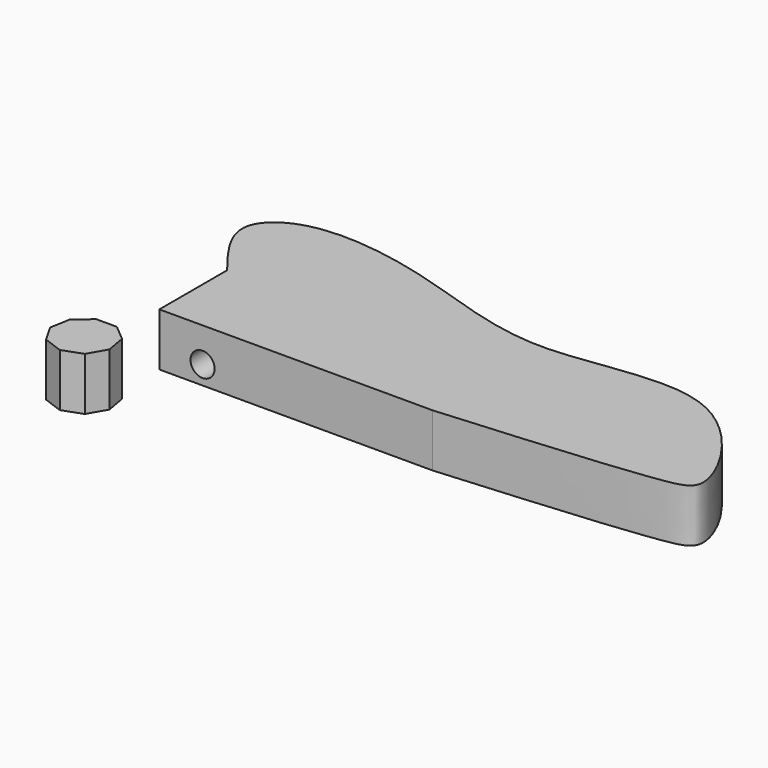
from build123d import *

# Parameters (mm, degrees)
F1_DEPTH = 25.4
F0_W     = 131.0937702656
F0_H     = 40.6230986118
F2_R     = 5.7832794486
F3_DEPTH = 89.3176973929


with BuildPart() as f1:
    # F0 (on Top) → F1 (new body)
    with BuildSketch(Plane.XY):
        Polygon((-134.6932511543, -61.597596854), (-144.5764143254, -61.597596854), (-152.147356553, -67.9503716849), (-153.8635498273, -77.6833874), (-148.9219682417, -86.2424577759), (-139.6348327398, -89.6226986602), (-130.3476972379, -86.2424577759), (-125.4061156524, -77.6833874), (-127.1223089266, -67.9503716849), align=None)
    extrude(amount=F1_DEPTH)


with BuildPart() as f1b:
    # F0 (on Top) → F1, piece 2 (new body)
    with BuildSketch(Plane.XY):
        with BuildLine():
            Line((0, 0), (0, -40.6230986118))
            add(Edge.make_bspline(
                [(-131.0937702656, 0), (-139.7720070352, 11.0244108668), (-155.4560847023, 30.9487020399), (-129.8368140978, 53.0756520872), (-67.5758107322, 44.3132357682), (-1.986536452, 14.73822387), (80.9415009211, 46.0232828068), (124.2539338268, -26.2090809087), (99.0819851312, -33.087788073), (41.8108627244, -37.4433295135), (0, -40.6230986118)],
                knots=[0, 0, 0, 0, 0.1027943641, 0.1857790739, 0.3201907001, 0.4685390922, 0.6227619524, 0.7577346588, 0.82313385, 1, 1, 1, 1], degree=3))
            Line((-131.0937702656, 0), (0, 0))
        make_face()
        with Locations((-65.5468851328, -20.3115493059)):
            Rectangle(F0_W, F0_H)
    extrude(amount=F1_DEPTH)

    # F2 (on face) → F3 (cut, through all)
    with BuildSketch(Plane.XZ.offset(40.6230986118)):
        with Locations((-110.369361937, 8.9162522927)):
            Circle(F2_R)
    extrude(amount=-F3_DEPTH, mode=Mode.SUBTRACT)


solid = Compound([f1.part, f1b.part])
